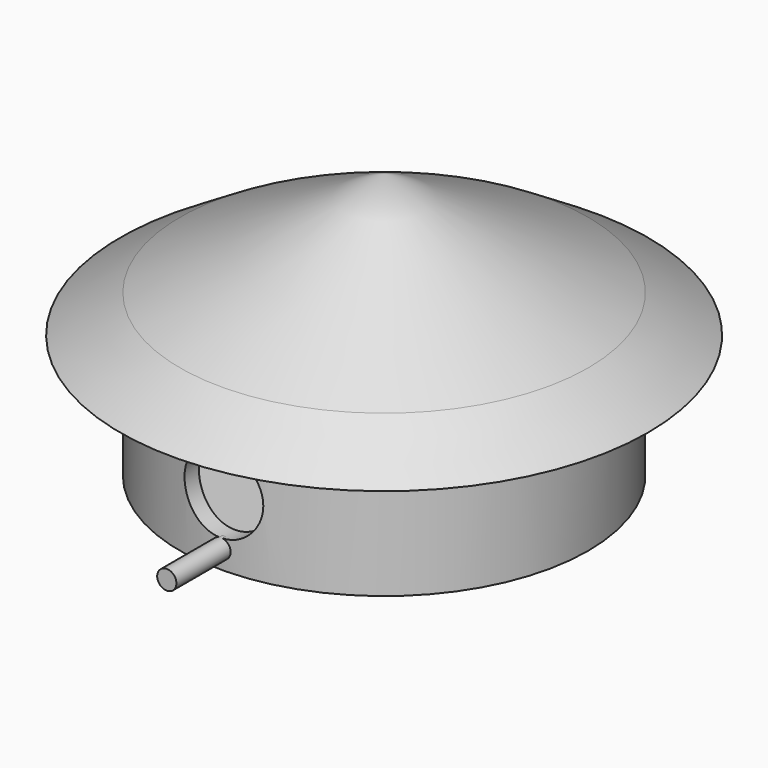
from build123d import *

# Parameters (mm, degrees)
F2_R     = 9.000031
F3_DEPTH = 67.8
F5_R     = 2.197813
F6_DEPTH = 16.3


with BuildPart() as f1:
    # F0 (on Front) → F1 (revolve)
    with BuildSketch(Plane.XZ):
        Polygon((0, 3.423913), (0, 0), (42.65625, 0), (46.650816, 0), (46.650816, 34.018698), (60.346473, 28.247284), (46.650816, 36.807068), (0, 60.774457), (0, 54.78261), (42.65625, 36.807068), (42.65625, 3.423913), align=None)
    revolve(axis=Axis((0, 0, 1.711957), (0, 0, 1)))

    # F2 (on Front) → F3 (cut)
    with BuildSketch(Plane.XZ):
        with Locations((0, 15.407609)):
            Circle(F2_R)
    extrude(amount=F3_DEPTH, mode=Mode.SUBTRACT)

    # F5 (on offset) → F6 (join)
    with BuildSketch(Plane.XZ.offset(45.8)):
        with Locations((0, 4.250792)):
            Circle(F5_R)
    extrude(amount=F6_DEPTH)


solid = f1.part
